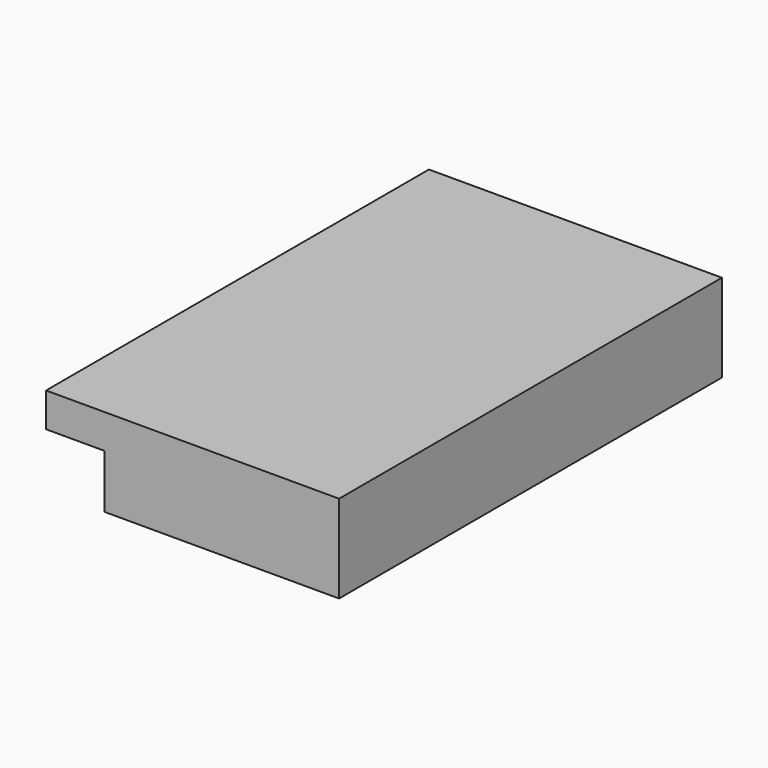
from build123d import *

# Parameters (mm, degrees)
F0_W     = 762
F0_H     = 1244.6
F1_DEPTH = 228.6
F2_W     = 1244.6
F2_H     = 139.7
F3_DEPTH = 152.4


with BuildPart() as f1:
    # F0 (on Top) → F1 (new body)
    with BuildSketch(Plane.XY):
        with Locations((-381, 0)):
            Rectangle(F0_W, F0_H)
    extrude(amount=-F1_DEPTH)

    # F2 (on face) → F3 (cut)
    with BuildSketch(Plane(origin=(-762, 0, 0), x_dir=(0, -1, 0), z_dir=(-1, 0, 0))):
        with Locations((0, -158.75)):
            Rectangle(F2_W, F2_H)
    extrude(amount=-F3_DEPTH, mode=Mode.SUBTRACT)


solid = f1.part
